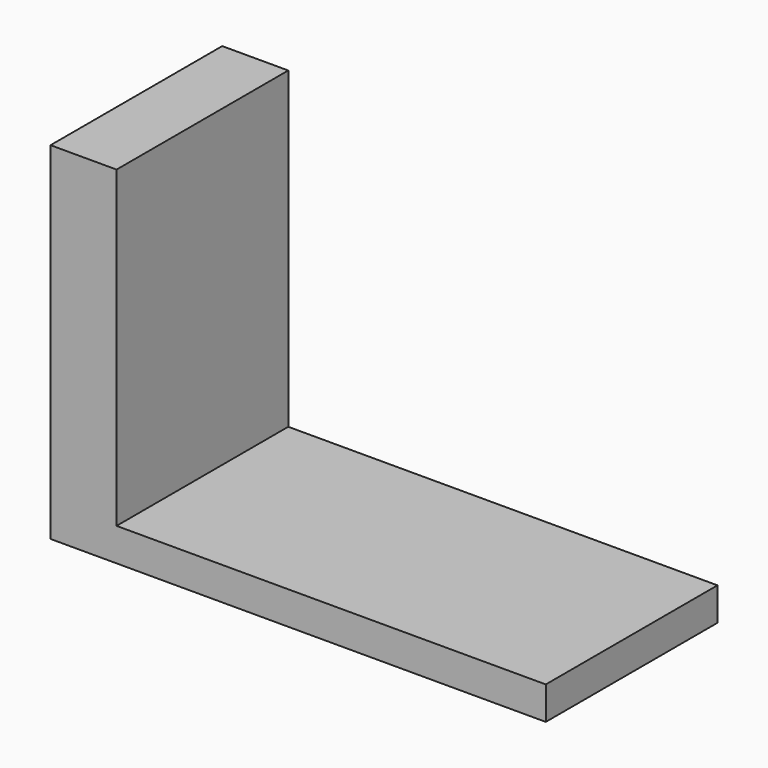
from build123d import *

# Parameters (mm, degrees)
F1_DEPTH  = 25.4
F2_DEPTH  = 57.15
F2_FACE_W = 25.4
F2_FACE_H = 82.55
F3_DEPTH  = 76.2


with BuildPart() as f1:
    # F0 (on Front) → F1 (new body)
    with BuildSketch(Plane.XZ):
        Polygon((0, 57.15), (0, 0), (190.5, 0), (190.5, 12.7), (25.4, 12.7), (25.4, 57.15), align=None)
    extrude(amount=F1_DEPTH)

    # F1_face (on face) → F2 (join)
    with BuildSketch(Plane(origin=(68.984091, -25.4, 15.442045), x_dir=(1, 0, 0), z_dir=(0, -1, 0))):
        Polygon((-43.584091, -2.742045), (-43.584091, 41.707955), (-68.984091, 41.707955), (-68.984091, -15.442045), (121.515909, -15.442045), (121.515909, -2.742045), align=None)
    extrude(amount=F2_DEPTH)

    # F2_face (on face) → F3 (join)
    with BuildSketch(Plane(origin=(12.7, -41.275, 57.15), x_dir=(1, 0, 0), z_dir=(0, 0, 1))):
        Rectangle(F2_FACE_W, F2_FACE_H)
    extrude(amount=F3_DEPTH)


solid = f1.part
